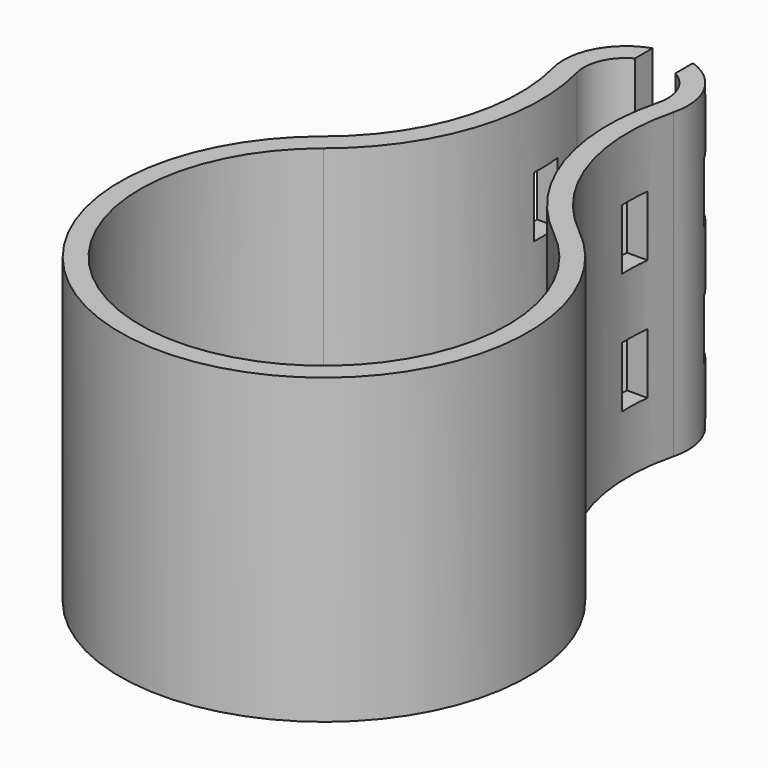
from build123d import *

# Parameters (mm, degrees)
PAD_DEPTH            = 30
SKETCH001_W          = 6
SKETCH001_H          = 3
POCKET_DEPTH         = 13.2
POCKET_DEPTH_BACK    = 13.2
SKETCH002_W          = 4
SKETCH002_H          = 4
POCKET001_DEPTH      = 30.001
SKETCH003_W          = 6
SKETCH003_H          = 3
POCKET002_DEPTH      = 13.5
POCKET002_DEPTH_BACK = 13.5


with BuildPart() as part:
    # Sketch → Pad (new body)
    with BuildSketch(Plane.XY):
        with BuildLine():
            ThreePointArc((5.9557040861, 35.8163478757), (-5.5633e-06, 43.5), (-5.9557013114, 35.8163371006))
            ThreePointArc((-12.6352136355, 15.760437062), (-6.3383082394, 24.8035240378), (-5.9557013114, 35.8163371006))
            ThreePointArc((-12.6352136355, 15.760437062), (-6.1796e-06, -20.2), (12.6352232783, 15.7604293313))
            ThreePointArc((5.9557040861, 35.8163478757), (6.3383084342, 24.8035234531), (12.6352232783, 15.7604293313))
        make_face()
        with BuildLine():
            ThreePointArc((4.018887599, 36.3150881841), (-3e-10, 41.5), (-4.0188875988, 36.3150881835))
            ThreePointArc((-11.3841995766, 14.2), (-4.4407755735, 24.1715627241), (-4.0188875988, 36.3150881835))
            ThreePointArc((-11.3841995766, 14.2), (1.86e-08, -18.2), (11.3841995475, 14.2000000233))
            ThreePointArc((4.018887599, 36.3150881841), (4.4407755675, 24.1715627421), (11.3841995475, 14.2000000233))
        make_face(mode=Mode.SUBTRACT)
    extrude(amount=PAD_DEPTH)

    # Sketch001 (on DatumPlane) → Pocket (cut, two sides)
    with BuildSketch(Plane(origin=(-1.1243e-06, 28.9018483533, 15), x_dir=(0, 0, 1), z_dir=(1, 2.57e-08, 0))) as pocket_sk:
        with Locations((-6, -2.7981516467)):
            Rectangle(SKETCH001_W, SKETCH001_H)
        with Locations((6, -2.7981516467)):
            Rectangle(SKETCH001_W, SKETCH001_H)
    extrude(amount=-POCKET_DEPTH, mode=Mode.SUBTRACT)
    extrude(pocket_sk.sketch, amount=POCKET_DEPTH_BACK, mode=Mode.SUBTRACT)

    # Sketch002 (on Face5 of Pocket) → Pocket001 (cut, through all)
    with BuildSketch(Plane.XY.offset(30)):
        with Locations((0, 42.5)):
            Rectangle(SKETCH002_W, SKETCH002_H)
    extrude(amount=-POCKET001_DEPTH, mode=Mode.SUBTRACT)

    # Sketch003 (on DatumPlane) → Pocket002 (cut, two sides)
    with BuildSketch(Plane(origin=(-1.1243e-06, 28.9018483533, 15), x_dir=(0, 0, 1), z_dir=(1, 2.57e-08, 0))) as pocket002_sk:
        with Locations((-6, -12.7638630738)):
            Rectangle(SKETCH003_W, SKETCH003_H)
        with Locations((6, -12.7638630738)):
            Rectangle(SKETCH003_W, SKETCH003_H)
    extrude(amount=-POCKET002_DEPTH, mode=Mode.SUBTRACT)
    extrude(pocket002_sk.sketch, amount=POCKET002_DEPTH_BACK, mode=Mode.SUBTRACT)


solid = part.part
